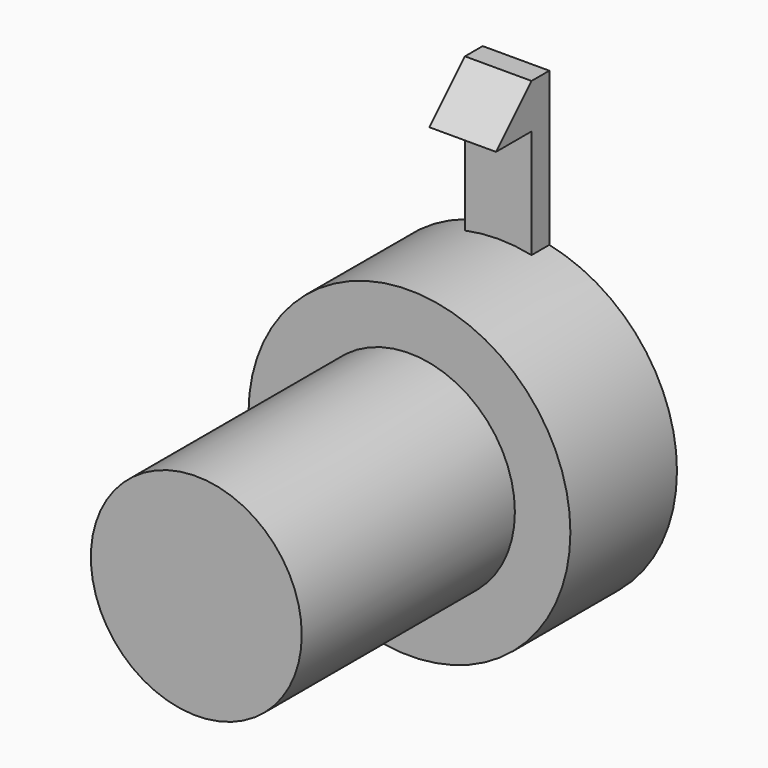
from build123d import *

# Parameters (mm, degrees)
F0_R          = 3.625
F0_R_2        = 2.375
F1_DEPTH      = 1
F1_DEPTH_BACK = 2
F2_DEPTH      = 7
F4_DEPTH      = 0.75


with BuildPart() as f1:
    # F0 (on Front) → F1 (new body, two sides)
    with BuildSketch(Plane.XZ) as f1_sk:
        Circle(F0_R)
        Circle(F0_R_2, mode=Mode.SUBTRACT)
    extrude(amount=F1_DEPTH)
    extrude(f1_sk.sketch, amount=-F1_DEPTH_BACK)

    # F0 (on Front) → F2 (join)
    with BuildSketch(Plane.XZ):
        Circle(F0_R_2)
    extrude(amount=F2_DEPTH)

    # F3 (on Right) → F4 (join, symmetric)
    with BuildSketch(Plane.YZ):
        Polygon((1.5, 3.5), (2, 3.5), (2, 7), (1.5, 7), (1.5, 6), align=None)
        Polygon((0.5, 6), (1.5, 6), (1.5, 7), align=None)
    extrude(amount=F4_DEPTH, both=True)


solid = f1.part
